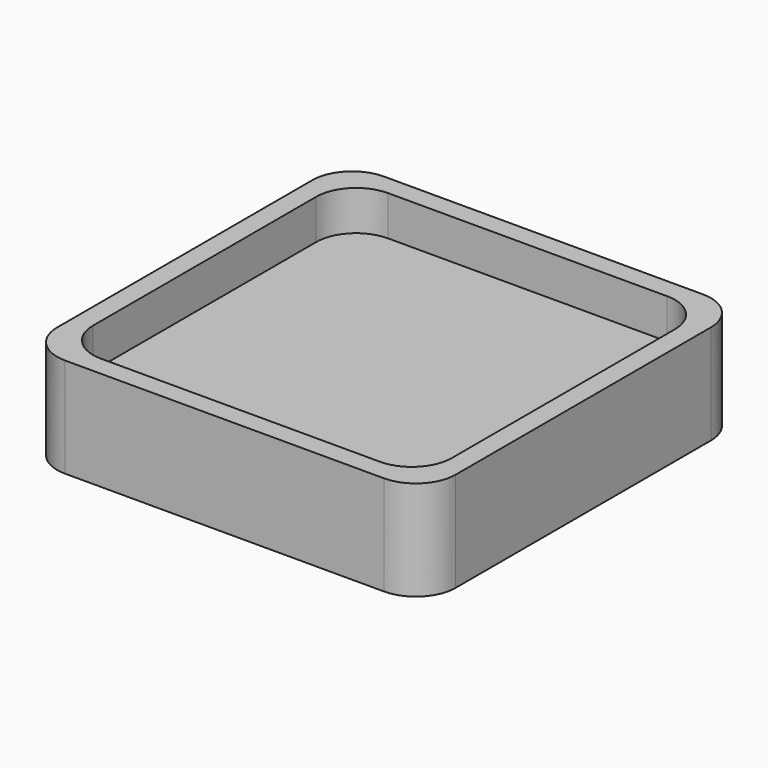
from build123d import *

# Parameters (mm, degrees)
F0_W     = 100
F0_H     = 100
F1_DEPTH = 25
F2_W     = 90
F2_H     = 90
F3_DEPTH = 10
F4_R     = 10


with BuildPart() as f1:
    # F0 (on Top) → F1 (new body)
    with BuildSketch(Plane.XY):
        Rectangle(F0_W, F0_H)
    extrude(amount=F1_DEPTH)

    # F2 (on face) → F3 (cut)
    with BuildSketch(Plane.XY.offset(25)):
        Rectangle(F2_W, F2_H)
    extrude(amount=-F3_DEPTH, mode=Mode.SUBTRACT)

    # F4
    f4_edges = [f1.edges().sort_by_distance(p)[0] for p in [
        (50, 50, 12.5),
        (45, 45, 20),
        (-45, 45, 20),
        (-50, 50, 12.5),
        (-50, -50, 12.5),
        (-45, -45, 20),
        (50, -50, 12.5),
        (45, -45, 20),
    ]]
    fillet(f4_edges, radius=F4_R)


solid = f1.part
